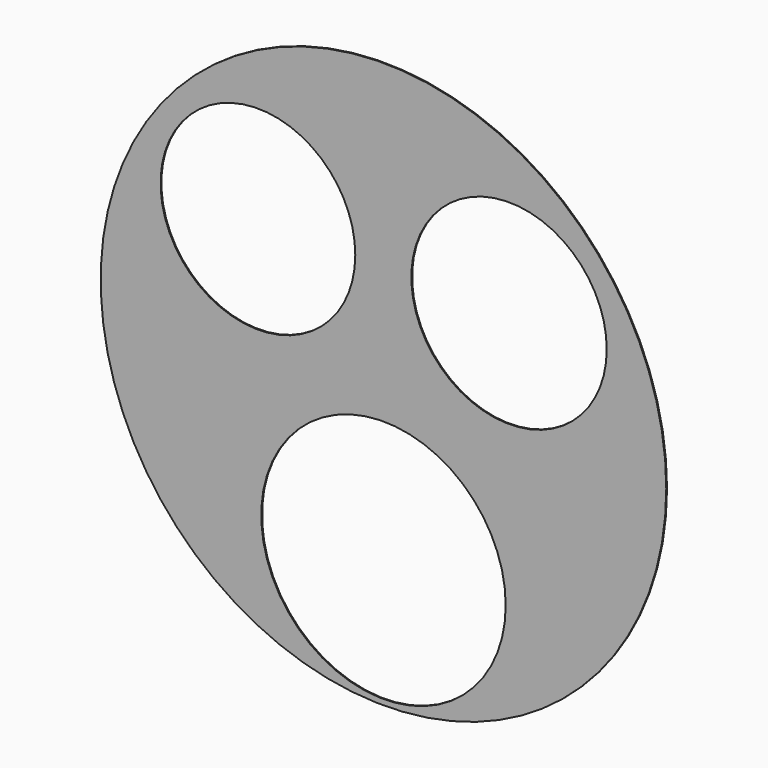
from build123d import *

# Parameters (mm, degrees)
F0_R     = 68.729274
F0_R_2   = 29.703403
F0_R_3   = 23.6598
F0_R_4   = 23.740748
F1_DEPTH = 0.23


with BuildPart() as f1:
    # F0 (on Front) → F1 (new body)
    with BuildSketch(Plane.XZ):
        with Locations((0, 3.650091)):
            Circle(F0_R)
        with Locations((0, -34.018852)):
            Circle(F0_R_2, mode=Mode.SUBTRACT)
        with Locations((-30.514764, 29.054726)):
            Circle(F0_R_3, mode=Mode.SUBTRACT)
        with Locations((30.514766, 28.762719)):
            Circle(F0_R_4, mode=Mode.SUBTRACT)
    extrude(amount=F1_DEPTH)


solid = f1.part
